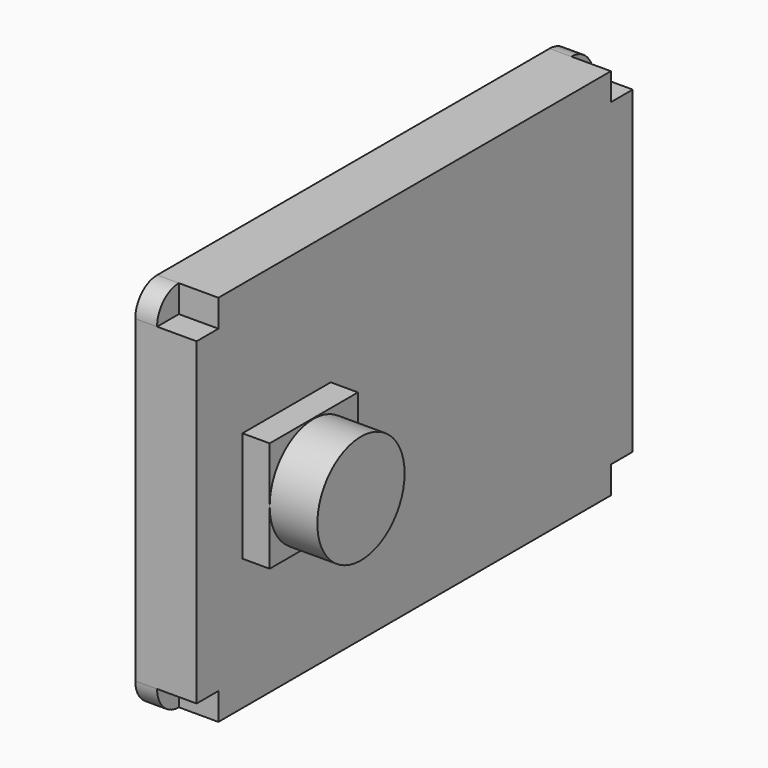
from build123d import *

# Parameters (mm, degrees)
PAD002_DEPTH = 1.6
PAD003_DEPTH = 4.5
SKETCH015_W  = 8.1
SKETCH015_H  = 8.1
PAD004_DEPTH = 6.5
SKETCH016_R  = 4
PAD005_DEPTH = 10


with BuildPart() as part:
    # Sketch013 → Pad002 (new body)
    with BuildSketch(Plane.YZ):
        with BuildLine():
            ThreePointArc((-18, 13.7), (-19.414214, 13.114214), (-20, 11.7))
            Line((-20, -11.7), (-20, 11.7))
            ThreePointArc((-20, -11.7), (-19.414214, -13.114214), (-18, -13.7))
            Line((18, -13.7), (-18, -13.7))
            ThreePointArc((18, -13.7), (19.414214, -13.114214), (20, -11.7))
            Line((20, 11.7), (20, -11.7))
            ThreePointArc((20, 11.7), (19.414214, 13.114214), (18, 13.7))
            Line((-18, 13.7), (18, 13.7))
        make_face()
    extrude(amount=PAD002_DEPTH)

    # Sketch014 → Pad003 (join)
    with BuildSketch(Plane.YZ):
        Polygon((-18, 13.7), (18, 13.7), (18, 11.7), (20, 11.7), (20, -11.7), (18, -11.7), (18, -13.7), (-18, -13.7), (-18, -11.7), (-20, -11.7), (-20, 11.7), (-18, 11.7), align=None)
    extrude(amount=PAD003_DEPTH)

    # Sketch015 → Pad004 (join)
    with BuildSketch(Plane.YZ):
        with Locations((-11.75, 0)):
            Rectangle(SKETCH015_W, SKETCH015_H)
    extrude(amount=PAD004_DEPTH)

    # Sketch016 → Pad005 (join)
    with BuildSketch(Plane.YZ):
        with Locations((-11.8, 0)):
            Circle(SKETCH016_R)
    extrude(amount=PAD005_DEPTH)


solid = part.part
